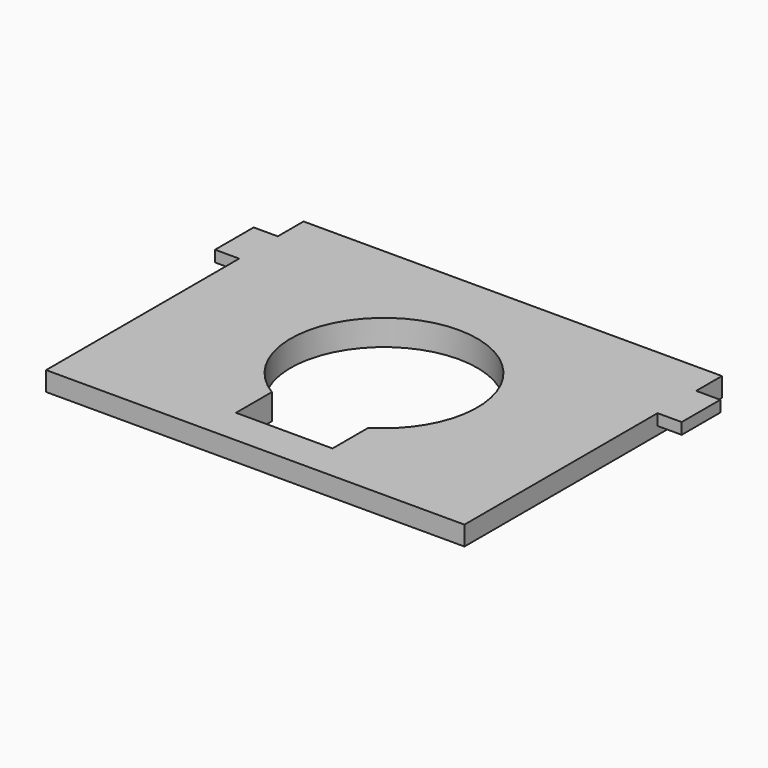
from build123d import *

# Parameters (mm, degrees)
F0_W     = 260
F0_H     = 200
F1_DEPTH = 12
F2_DEPTH = 4
F3_W     = 15
F3_H     = 30
F4_DEPTH = 7


with BuildPart() as f1:
    # F0 (on Top) → F1 (new body)
    with BuildSketch(Plane.XY):
        Rectangle(F0_W, F0_H)
        Polygon((-98, 77.5), (98, 77.5), (118, 57.5), (118, -57.5), (98, -77.5), (30, -77.5), (-30, -77.5), (-98, -77.5), (-118, -57.5), (-118, 57.5), align=None, mode=Mode.SUBTRACT)
        with BuildLine():
            Line((118, 57.5), (98, 77.5))
            Line((98, 77.5), (-98, 77.5))
            Line((-98, 77.5), (-118, 57.5))
            Line((-118, 57.5), (-118, -57.5))
            Line((-118, -57.5), (-98, -77.5))
            Line((-98, -77.5), (-30, -77.5))
            Line((-30, -77.5), (-30, -49.638695))
            ThreePointArc((-30, -49.638695), (0, 58), (30, -49.638695))
            Line((30, -49.638695), (30, -77.5))
            Line((30, -77.5), (98, -77.5))
            Line((98, -77.5), (118, -57.5))
            Line((118, -57.5), (118, 57.5))
        make_face()
    extrude(amount=F1_DEPTH)

    # F0 (on Top) → F2 (join)
    with BuildSketch(Plane.XY):
        with BuildLine():
            Line((118, 57.5), (98, 77.5))
            Line((98, 77.5), (-98, 77.5))
            Line((-98, 77.5), (-118, 57.5))
            Line((-118, 57.5), (-118, -57.5))
            Line((-118, -57.5), (-98, -77.5))
            Line((-98, -77.5), (-30, -77.5))
            Line((-30, -77.5), (-30, -49.638695))
            ThreePointArc((-30, -49.638695), (0, 58), (30, -49.638695))
            Line((30, -49.638695), (30, -77.5))
            Line((30, -77.5), (98, -77.5))
            Line((98, -77.5), (118, -57.5))
            Line((118, -57.5), (118, 57.5))
        make_face()
    extrude(amount=-F2_DEPTH)

    # F3 (on face) → F4 (join)
    with BuildSketch(Plane.XY.offset(12)):
        with Locations((-137.5, 65)):
            Rectangle(F3_W, F3_H)
        with Locations((137.5, 65)):
            Rectangle(F3_W, F3_H)
    extrude(amount=-F4_DEPTH)


solid = f1.part
